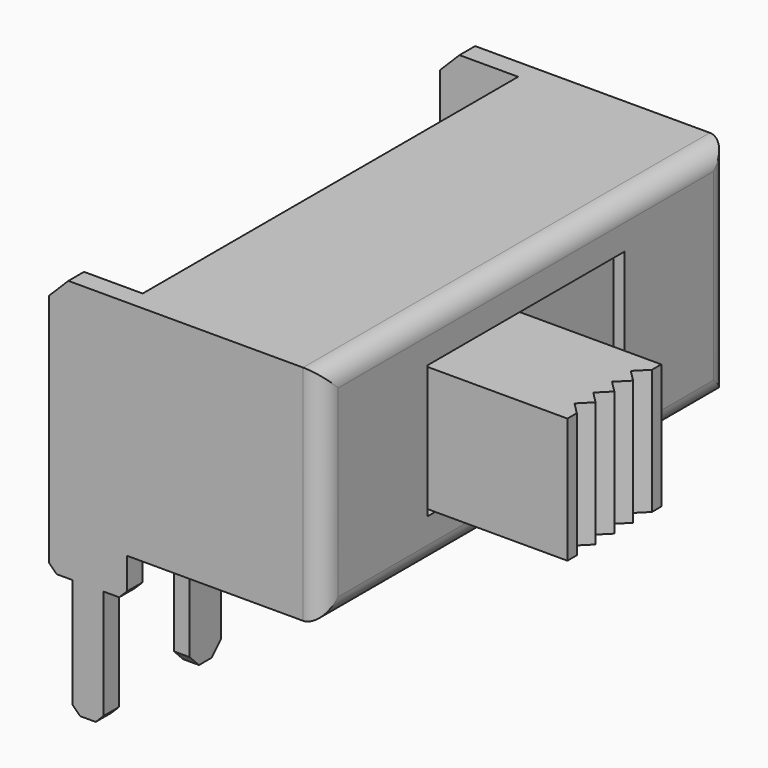
from build123d import *

# Parameters (mm, degrees)
F0_W       = 5
F0_H       = 13
F1_DEPTH   = 5.7
F2_W       = 6.3
F2_H       = 3.4
F3_DEPTH   = 2
F4_W       = 6.1
F4_H       = 3.2
F5_DEPTH   = 1.8
F6_W       = 3
F6_H       = 3.2
F7_DEPTH   = 3.7
F8_W       = 0.5
F8_H       = 5.7
F9_DEPTH   = 2
F10_W      = 2
F10_H      = 0.5
F11_DEPTH  = 1
F12_W      = 0.8
F12_H      = 0.5
F13_DEPTH  = 3
F14_W      = 0.8
F14_H      = 0.5
F15_DEPTH  = 3
F16_SIZE   = 0.2
F17_SIZE   = 0.2
F18_R      = 0.5
F19_SIZE   = 0.5
F20_W      = 11.6
F20_H      = 5.3
F21_DEPTH  = 2
F22_W      = 0.5
F22_H      = 11
F23_DEPTH  = 5.3
F24_W      = 2
F24_H      = 0.4
F25_DEPTH  = 0.5
F26_W      = 1
F26_H      = 0.4
F29_W      = 1
F29_H      = 0.4
F31_W      = 1
F31_H      = 0.4
F33_SIZE   = 0.3
F33_2_SIZE = 0.3
F33_3_SIZE = 0.3
F35_DEPTH  = 25


with BuildPart() as f1:
    # F0 (on Top) → F1 (new body)
    with BuildSketch(Plane.XY):
        Rectangle(F0_W, F0_H)
    extrude(amount=F1_DEPTH)

    # F2 (on face) → F3 (cut)
    with BuildSketch(Plane.YZ.offset(2.5)):
        with Locations((0, 2.85)):
            Rectangle(F2_W, F2_H)
    extrude(amount=-F3_DEPTH, mode=Mode.SUBTRACT)

    # F8 (on face) → F9 (join)
    with BuildSketch(Plane(origin=(-2.5, 0, 0), x_dir=(0, -1, 0), z_dir=(-1, 0, 0))):
        with Locations((-6.25, 2.85)):
            Rectangle(F8_W, F8_H)
        with Locations((6.25, 2.85)):
            Rectangle(F8_W, F8_H)
    extrude(amount=F9_DEPTH)

    # F10 (on face) → F11 (join)
    with BuildSketch(Plane(origin=(0, 0, 0), x_dir=(1, 0, 0), z_dir=(0, 0, -1))):
        with Locations((-3.5, 6.25)):
            Rectangle(F10_W, F10_H)
        with Locations((-3.5, -6.25)):
            Rectangle(F10_W, F10_H)
    extrude(amount=F11_DEPTH)

    # F12 (on face) → F13 (join)
    with BuildSketch(Plane(origin=(0, 0, -1), x_dir=(1, 0, 0), z_dir=(0, 0, -1))):
        with Locations((-3.5, -6.25)):
            Rectangle(F12_W, F12_H)
    extrude(amount=F13_DEPTH)

    # F14 (on face) → F15 (join)
    with BuildSketch(Plane(origin=(0, 0, -1), x_dir=(1, 0, 0), z_dir=(0, 0, -1))):
        with Locations((-3.5, 6.25)):
            Rectangle(F14_W, F14_H)
    extrude(amount=F15_DEPTH)

    # F16
    f16_edges = [f1.edges().sort_by_distance(p)[0] for p in [
        (-3.9, 6.25, -4),
        (-3.1, 6.25, -4),
        (-3.9, -6.25, -4),
        (-3.1, -6.25, -4),
    ]]
    chamfer(f16_edges, length=F16_SIZE)

    # F17
    f17_edges = [f1.edges().sort_by_distance(p)[0] for p in [
        (-4.5, 6.25, -1),
        (-2.5, 6.25, -1),
        (-4.5, -6.25, -1),
        (-2.5, -6.25, -1),
    ]]
    chamfer(f17_edges, length=F17_SIZE)

    # F18
    f18_edges = [f1.edges().sort_by_distance(p)[0] for p in [
        (2.5, 0, 5.7),
        (2.5, 6.5, 2.85),
        (2.5, 0, 0),
        (2.5, -6.5, 2.85),
    ]]
    fillet(f18_edges, radius=F18_R)

    # F19
    f19_edges = [f1.edges().sort_by_distance(p)[0] for p in [
        (-4.5, 6.25, 5.7),
        (-4.5, -6.25, 5.7),
    ]]
    chamfer(f19_edges, length=F19_SIZE)

    # F20 (on face) → F21 (cut)
    with BuildSketch(Plane(origin=(-2.5, 0, 0), x_dir=(0, -1, 0), z_dir=(-1, 0, 0))):
        with Locations((0, 2.85)):
            Rectangle(F20_W, F20_H)
    extrude(amount=-F21_DEPTH, mode=Mode.SUBTRACT)


with BuildPart() as f5:
    # F4 (on face) → F5 (new body)
    with BuildSketch(Plane.YZ.offset(0.5)):
        with Locations((0, 2.85)):
            Rectangle(F4_W, F4_H)
    extrude(amount=F5_DEPTH)

    # F6 (on face) → F7 (join)
    with BuildSketch(Plane.YZ.offset(2.3)):
        with Locations((-1.55, 2.85)):
            Rectangle(F6_W, F6_H)
    extrude(amount=F7_DEPTH)

    # F34 (on face) → F35 (cut)
    with BuildSketch(Plane(origin=(0, 0, 1.25), x_dir=(1, 0, 0), z_dir=(0, 0, -1))):
        Polygon((6, 2.15), (6, 2.75), (5.7, 2.45), align=None)
        Polygon((6, 1.55), (6, 2.15), (5.7, 1.85), align=None)
        Polygon((6, 0.95), (6, 1.55), (5.7, 1.25), align=None)
        Polygon((6, 0.35), (6, 0.95), (5.7, 0.65), align=None)
    extrude(amount=-F35_DEPTH, mode=Mode.SUBTRACT)


with BuildPart() as f23:
    # F22 (on face) → F23 (new body)
    with BuildSketch(Plane(origin=(0, 0, 5.5), x_dir=(1, 0, 0), z_dir=(0, 0, -1))):
        with Locations((-2.25, 0)):
            Rectangle(F22_W, F22_H)
    extrude(amount=F23_DEPTH)


with BuildPart() as f25:
    # F24 (on face) → F25 (new body)
    with BuildSketch(Plane(origin=(-2.5, 0, 0), x_dir=(0, -1, 0), z_dir=(-1, 0, 0))):
        with Locations((0, 2.85)):
            Rectangle(F24_W, F24_H)
    extrude(amount=F25_DEPTH)

    # F28: sweep along a path in F27
    with BuildLine(Plane(origin=(0, 1, 0), x_dir=(-1, 0, 0), z_dir=(0, 1, 0))) as f28_path:
        Line((3.5, -4.0618096853), (3.5, 2.55))
        ThreePointArc((3.5, 2.55), (3.4121320344, 2.7621320344), (3.2, 2.85))
        Line((3.2, 2.85), (3, 2.85))
    # F26 (on face) → F28 (sweep)
    with BuildSketch(Plane(origin=(-3, 0, 0), x_dir=(0, -1, 0), z_dir=(-1, 0, 0))):
        with Locations((0, 2.85)):
            Rectangle(F26_W, F26_H)
    sweep(path=f28_path.line)

    # F33#2
    f33_2_edges = [f25.edges().sort_by_distance(p)[0] for p in [
        (-3.5, -0.5, -4.06181),
        (-3.5, 0.5, -4.06181),
    ]]
    chamfer(f33_2_edges, length=F33_2_SIZE)


with BuildPart() as f25b:
    # F24 (on face) → F25, piece 2 (new body)
    with BuildSketch(Plane(origin=(-2.5, 0, 0), x_dir=(0, -1, 0), z_dir=(-1, 0, 0))):
        with Locations((3, 2.85)):
            Rectangle(F24_W, F24_H)
    extrude(amount=F25_DEPTH)

    # F30: sweep along a path in F27
    with BuildLine(Plane(origin=(0, 1, 0), x_dir=(-1, 0, 0), z_dir=(0, 1, 0))) as f30_path:
        Line((3, 2.85), (3.2, 2.85))
        ThreePointArc((3.2, 2.85), (3.4121320344, 2.7621320344), (3.5, 2.55))
        Line((3.5, 2.55), (3.5, -4.0618096853))
    # F29 (on face) → F30 (sweep)
    with BuildSketch(Plane(origin=(-3, 0, 0), x_dir=(0, -1, 0), z_dir=(-1, 0, 0))):
        with Locations((3, 2.85)):
            Rectangle(F29_W, F29_H)
    sweep(path=f30_path.line)

    # F33
    f33_edges = [f25b.edges().sort_by_distance(p)[0] for p in [
        (-3.5, -3.5, -4.06181),
        (-3.5, -2.5, -4.06181),
    ]]
    chamfer(f33_edges, length=F33_SIZE)


with BuildPart() as f25c:
    # F24 (on face) → F25, piece 3 (new body)
    with BuildSketch(Plane(origin=(-2.5, 0, 0), x_dir=(0, -1, 0), z_dir=(-1, 0, 0))):
        with Locations((-3, 2.85)):
            Rectangle(F24_W, F24_H)
    extrude(amount=F25_DEPTH)

    # F32: sweep along a path in F27
    with BuildLine(Plane(origin=(0, 1, 0), x_dir=(-1, 0, 0), z_dir=(0, 1, 0))) as f32_path:
        Line((3, 2.85), (3.2, 2.85))
        ThreePointArc((3.2, 2.85), (3.4121320344, 2.7621320344), (3.5, 2.55))
        Line((3.5, 2.55), (3.5, -4.0618096853))
    # F31 (on face) → F32 (sweep)
    with BuildSketch(Plane(origin=(-3, 0, 0), x_dir=(0, -1, 0), z_dir=(-1, 0, 0))):
        with Locations((-3, 2.85)):
            Rectangle(F31_W, F31_H)
    sweep(path=f32_path.line)

    # F33#3
    f33_3_edges = [f25c.edges().sort_by_distance(p)[0] for p in [
        (-3.5, 2.5, -4.06181),
        (-3.5, 3.5, -4.06181),
    ]]
    chamfer(f33_3_edges, length=F33_3_SIZE)


solid = Compound([f1.part, f5.part, f23.part, f25.part, f25b.part, f25c.part])
